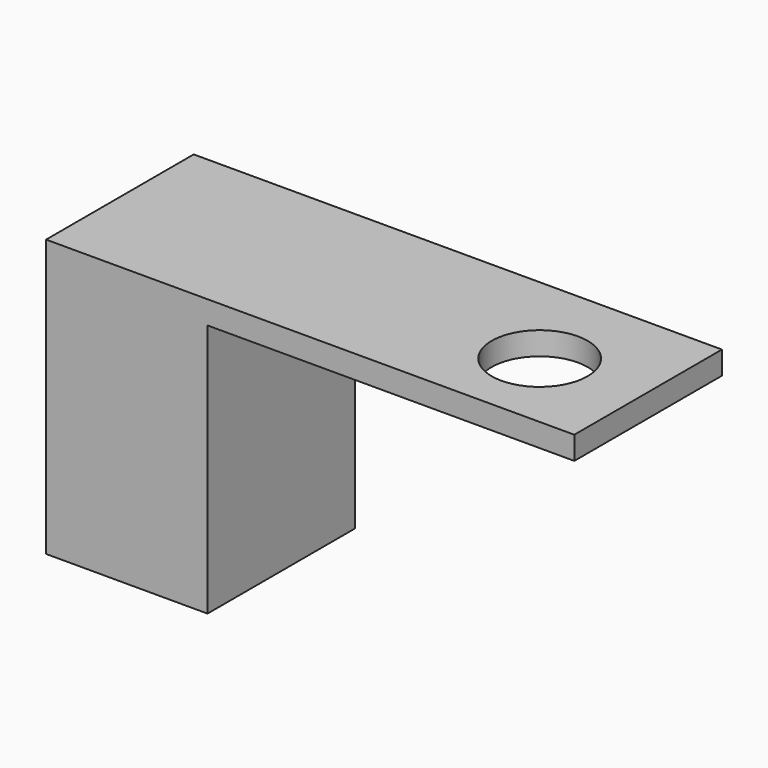
from build123d import *

# Parameters (mm, degrees)
F0_W     = 533.4
F0_H     = 914.4
F1_DEPTH = 609.6
F2_W     = 1211.786538
F2_H     = 609.6
F3_DEPTH = 76.2
F4_R     = 158.514697
F5_DEPTH = 914.401


with BuildPart() as f1:
    # F0 (on Front) → F1 (new body)
    with BuildSketch(Plane.XZ):
        Rectangle(F0_W, F0_H)
    extrude(amount=-F1_DEPTH)

    # F2 (on face) → F3 (join)
    with BuildSketch(Plane.XY.offset(457.2)):
        with Locations((872.593269, 304.8)):
            Rectangle(F2_W, F2_H)
    extrude(amount=-F3_DEPTH)

    # F4 (on face) → F5 (cut, through all)
    with BuildSketch(Plane.XY.offset(457.2)):
        with Locations((1142.773271, 276.569486)):
            Circle(F4_R)
    extrude(amount=-F5_DEPTH, mode=Mode.SUBTRACT)


solid = f1.part
